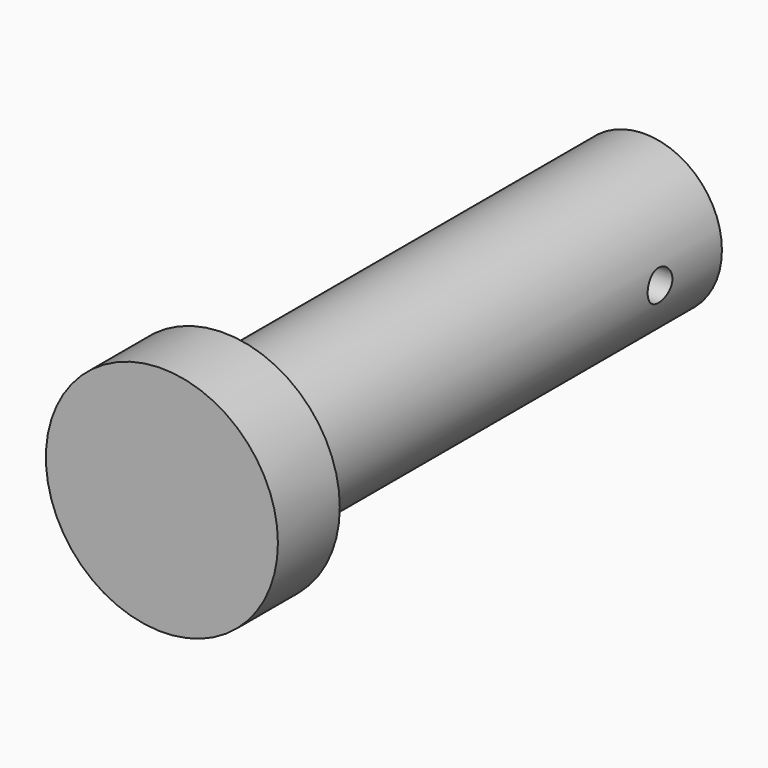
from build123d import *

# Parameters (mm, degrees)
F0_R     = 15
F1_DEPTH = 51
F2_R     = 22.5
F3_DEPTH = 15
F4_R     = 3
F5_DEPTH = 15


with BuildPart() as f1:
    # F0 (on Front) → F1 (new body, symmetric)
    with BuildSketch(Plane.XZ):
        Circle(F0_R)
    extrude(amount=F1_DEPTH, both=True)

    # F2 (on face) → F3 (join)
    with BuildSketch(Plane.XZ.offset(51)):
        Circle(F2_R)
    extrude(amount=F3_DEPTH)

    # F4 (on Right) → F5 (cut, symmetric)
    with BuildSketch(Plane.YZ):
        with Locations((36, 0)):
            Circle(F4_R)
    extrude(amount=F5_DEPTH, both=True, mode=Mode.SUBTRACT)


solid = f1.part
